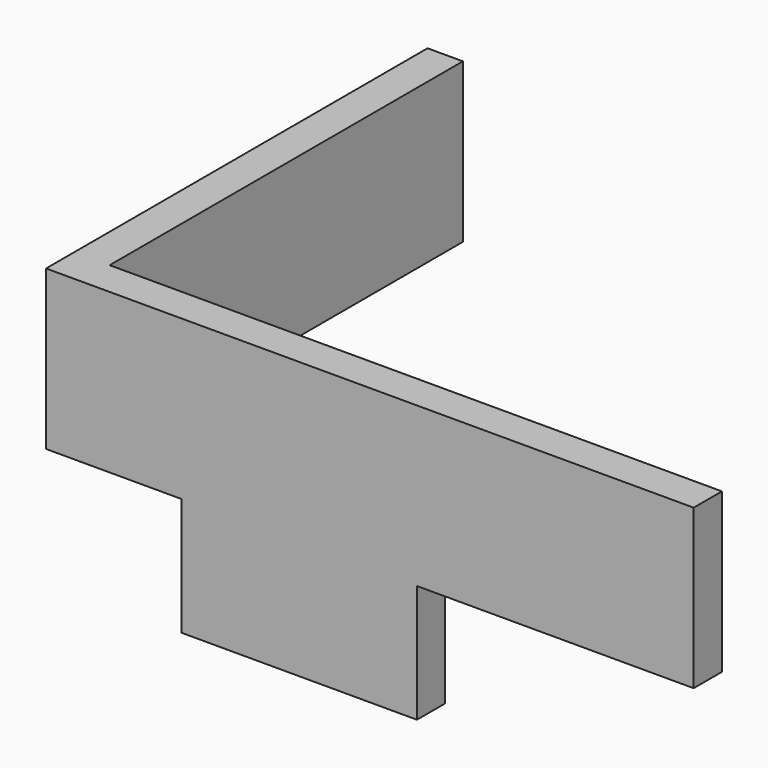
from build123d import *

# Parameters (mm, degrees)
F0_W     = 52
F0_H     = 13.5
F1_DEPTH = 3
F2_W     = 37.5
F2_H     = 13.5
F2_W_2   = 3
F3_DEPTH = 3
F4_W     = 20
F4_H     = 10
F5_DEPTH = 3


with BuildPart() as f1:
    # F0 (on Front) → F1 (new body)
    with BuildSketch(Plane.XZ):
        with Locations((26, 6.75)):
            Rectangle(F0_W, F0_H)
    extrude(amount=F1_DEPTH)

    # F2 (on face) → F3 (join)
    with BuildSketch(Plane(origin=(0, 0, 0), x_dir=(0, -1, 0), z_dir=(-1, 0, 0))):
        with Locations((-18.75, 6.75)):
            Rectangle(F2_W, F2_H)
        with Locations((1.5, 6.75)):
            Rectangle(F2_W_2, F2_H)
    extrude(amount=F3_DEPTH)

    # F4 (on face) → F5 (join)
    with BuildSketch(Plane.XZ.offset(3)):
        with Locations((18.5, -5)):
            Rectangle(F4_W, F4_H)
    extrude(amount=-F5_DEPTH)


solid = f1.part
